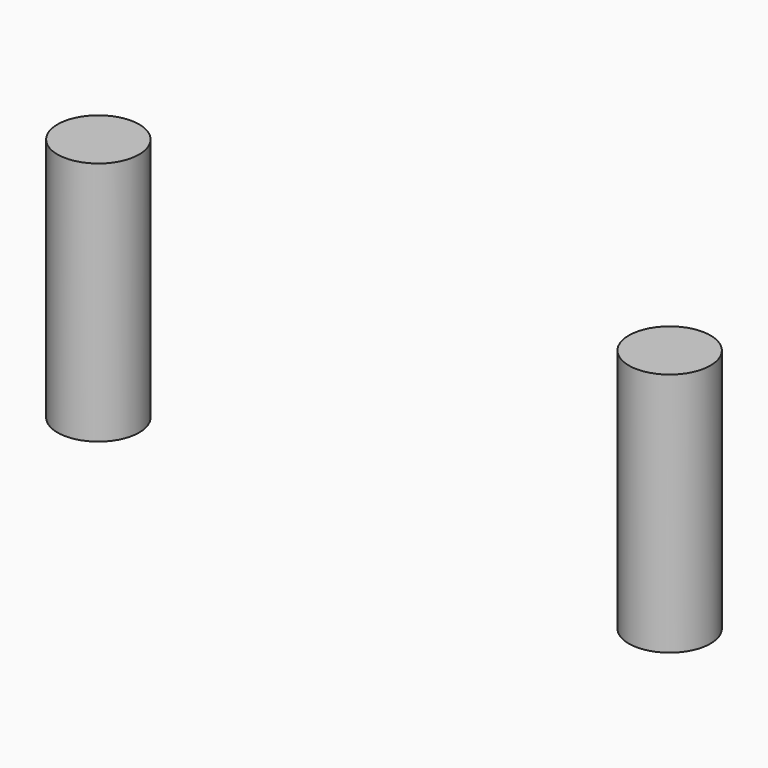
from build123d import *

# Parameters (mm, degrees)
F0_R     = 12.7
F1_DEPTH = 76.2


with BuildPart() as f1:
    # F0 (on Top) → F1 (new body)
    with BuildSketch(Plane.XY):
        with BuildLine():
            ThreePointArc((190.5, 0), (177.8, 12.7), (165.1, 0))
            ThreePointArc((165.1, 0), (177.8, -12.7), (190.5, 0))
        make_face()
        Circle(F0_R)
    extrude(amount=F1_DEPTH)


solid = f1.part
